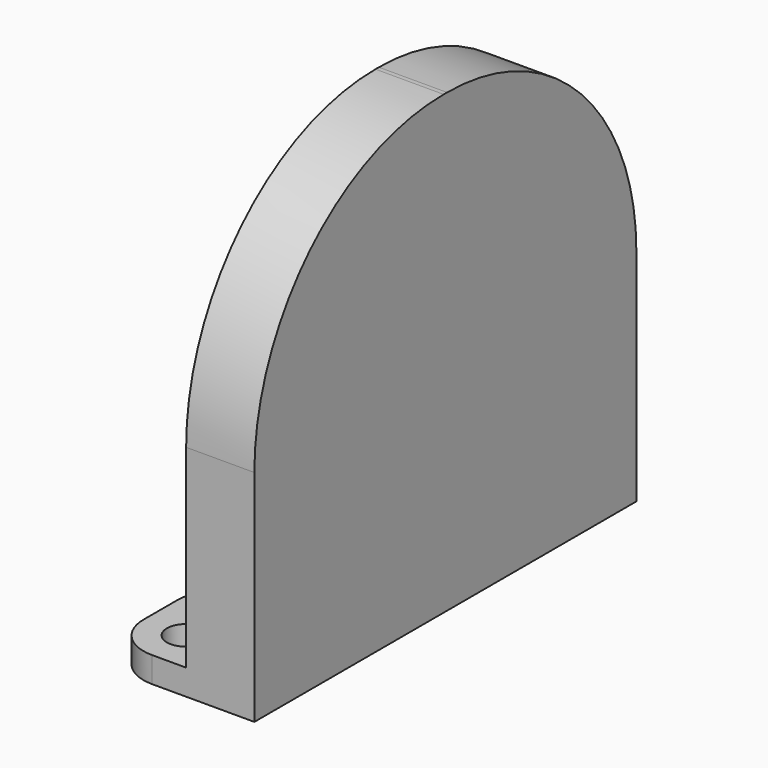
from build123d import *

# Parameters (mm, degrees)
F1_DEPTH = 2
F3_DEPTH = 6
F4_W     = 15
F4_H     = 3
F5_DEPTH = 15
F6_R     = 2.25
F7_DEPTH = 3.001
F8_R     = 5


with BuildPart() as f1:
    # F0 (on Right) → F1 (new body)
    with BuildSketch(Plane.YZ):
        with BuildLine():
            Line((-28, 25.75), (-28, 0))
            Line((-28, 0), (28, 0))
            Line((28, 0), (28, 25.75))
            ThreePointArc((28, 25.75), (19.872213, 45.372213), (0.25, 53.5))
            Line((0.25, 53.5), (-0.25, 53.5))
            ThreePointArc((-0.25, 53.5), (-19.872213, 45.372213), (-28, 25.75))
        make_face()
    extrude(amount=F1_DEPTH)

    # F2 (on face) → F3 (join)
    with BuildSketch(Plane(origin=(0, 0, 0), x_dir=(0, -1, 0), z_dir=(-1, 0, 0))):
        with BuildLine():
            ThreePointArc((0.25, 51.5), (18.458, 43.958), (26, 25.75))
            Line((26, 25.75), (26, 0))
            Line((26, 0), (28, 0))
            Line((28, 0), (28, 25.75))
            ThreePointArc((28, 25.75), (19.872213, 45.372213), (0.25, 53.5))
            Line((0.25, 53.5), (-0.25, 53.5))
            ThreePointArc((-0.25, 53.5), (-19.872213, 45.372213), (-28, 25.75))
            Line((-28, 25.75), (-28, 0))
            Line((-28, 0), (-26, 0))
            Line((-26, 0), (-26, 25.75))
            ThreePointArc((-26, 25.75), (-18.458, 43.958), (-0.25, 51.5))
            Line((-0.25, 51.5), (0.25, 51.5))
        make_face()
    extrude(amount=F3_DEPTH)

    # F4 (on face) → F5 (join)
    with BuildSketch(Plane(origin=(0, 0, 0), x_dir=(0, -1, 0), z_dir=(-1, 0, 0))):
        with Locations((-20.5, 1.5)):
            Rectangle(F4_W, F4_H)
        with Locations((20.5, 1.5)):
            Rectangle(F4_W, F4_H)
    extrude(amount=F5_DEPTH)

    # F6 (on face) → F7 (cut, through all)
    with BuildSketch(Plane.XY.offset(3)):
        with Locations((-10, 23)):
            Circle(F6_R)
        with Locations((-10, -23)):
            Circle(F6_R)
    extrude(amount=-F7_DEPTH, mode=Mode.SUBTRACT)

    # F8
    f8_edges = [f1.edges().sort_by_distance(p)[0] for p in [
        (-15, 28, 1.5),
        (-15, 13, 1.5),
        (-15, -13, 1.5),
        (-15, -28, 1.5),
    ]]
    fillet(f8_edges, radius=F8_R)


solid = f1.part
